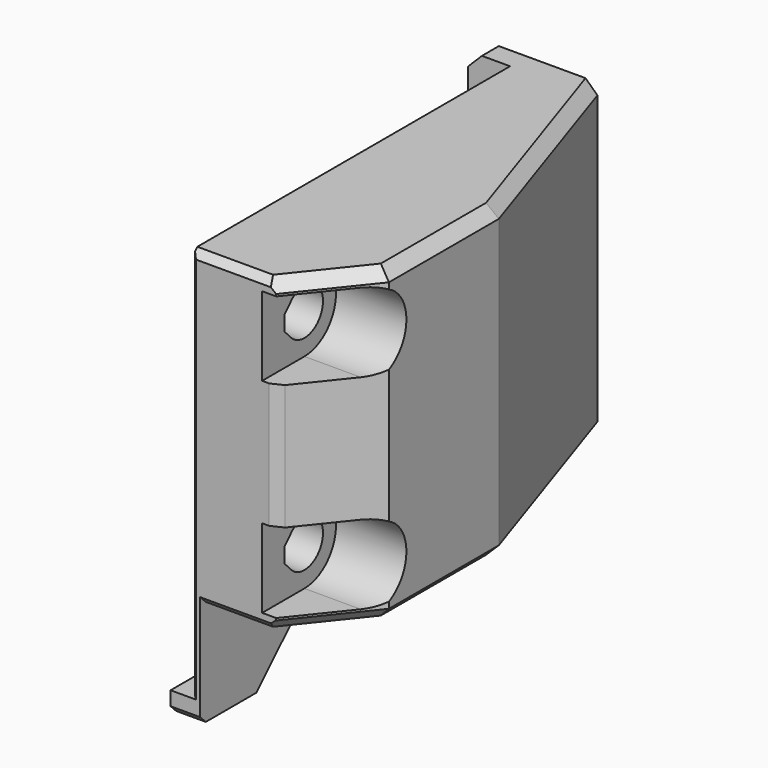
from build123d import *

# Parameters (mm, degrees)
SKETCH015_W     = 29.75
SKETCH015_H     = 22
SKETCH015_R     = 1.65
PAD005_DEPTH    = 10
SKETCH016_W     = 1.5
SKETCH016_H     = 22
PAD006_DEPTH    = 1.5
PAD007_DEPTH    = 0.6
PAD008_DEPTH    = 1.5
CHAMFER006_SIZE = 1.5
POCKET009_DEPTH = 5
POCKET010_DEPTH = 93.393175
POCKET011_DEPTH = 29.501
POCKET012_DEPTH = 29.501
CHAMFER007_SIZE = 0.5
CHAMFER008_SIZE = 0.5
CHAMFER009_SIZE = 0.8
CHAMFER010_SIZE = 0.5
CHAMFER011_SIZE = 0.3
CHAMFER012_SIZE = 0.5
SKETCH030_W     = 1.5
SKETCH030_H     = 22
PAD012_DEPTH    = 1.5
CHAMFER019_SIZE = 1


with BuildPart() as part:
    # Sketch015 (on Face1 of ShapeBinder008) → Pad005 (new body)
    with BuildSketch(Plane.YZ.offset(28.75)):
        with Locations((-35.875, 0)):
            Rectangle(SKETCH015_W, SKETCH015_H)
        with Locations((-47, 7.25)):
            Circle(SKETCH015_R, mode=Mode.SUBTRACT)
        with Locations((-47, -7.25)):
            Circle(SKETCH015_R, mode=Mode.SUBTRACT)
    extrude(amount=PAD005_DEPTH)

    # Sketch016 (on Face7 of Pad005) → Pad006 (join)
    with BuildSketch(Plane(origin=(28.75, 0, 0), x_dir=(0, -1, 0), z_dir=(-1, 0, 0))):
        with Locations((21.75, 0)):
            Rectangle(SKETCH016_W, SKETCH016_H)
    extrude(amount=PAD006_DEPTH)

    # Sketch017 (on Face2 of Pad006) → Pad007 (join)
    with BuildSketch(Plane(origin=(28.75, 0, 0), x_dir=(0, -1, 0), z_dir=(-1, 0, 0))):
        Polygon((50.75, -11), (50.75, -18.5), (45.75, -18.5), (38.25, -11), align=None)
    extrude(amount=-PAD007_DEPTH)

    # Sketch018 (on Face13 of Pad007) → Pad008 (join)
    with BuildSketch(Plane(origin=(28.75, 0, 0), x_dir=(0, -1, 0), z_dir=(-1, 0, 0))):
        Polygon((50.75, -18.5), (50.75, -17), (44.25, -17), (45.75, -18.5), align=None)
    extrude(amount=PAD008_DEPTH)

    # Chamfer006
    chamfer006_edges = [part.edges().sort_by_distance(p)[0] for p in [
        (27.25, -45, -17.75),
    ]]
    chamfer(chamfer006_edges, length=CHAMFER006_SIZE)

    # Sketch019 (on Face9 of Chamfer006) → Pocket009 (cut)
    with BuildSketch(Plane.YZ.offset(38.75)):
        with BuildLine():
            ThreePointArc((-47, -10.05), (-44.2, -7.25), (-47, -4.45))
            Line((-47, -4.45), (-50.75, -4.45))
            Line((-50.75, -4.45), (-50.75, -10.05))
            Line((-50.75, -10.05), (-47, -10.05))
        make_face()
    pocket009 = extrude(amount=-POCKET009_DEPTH, mode=Mode.SUBTRACT)

    # Mirrored002: Pocket009 across XY
    add(pocket009.mirror(Plane.XY), mode=Mode.SUBTRACT)

    # Sketch020 (on Face12 of Mirrored002) → Pocket010 (cut, through all)
    with BuildSketch(Plane.YZ.offset(33.75)):
        Polygon((-47.983298, 8.575), (-48.75, 7.808298), (-48.75, 6.691702), (-47.983298, 5.925), align=None)
    pocket010 = extrude(amount=-POCKET010_DEPTH, mode=Mode.SUBTRACT)

    # Mirrored003: Pocket010 across XY
    add(pocket010.mirror(Plane.XY), mode=Mode.SUBTRACT)

    # Sketch021 (on Face9 of Mirrored003) → Pocket011 (cut, through all)
    with BuildSketch(Plane(origin=(0, 0, 11), x_dir=(0, -1, 0), z_dir=(0, 0, 1))):
        Polygon((45.75, 38.75), (50.75, 34.75), (50.75, 38.75), align=None)
    extrude(amount=-POCKET011_DEPTH, mode=Mode.SUBTRACT)

    # Sketch022 (on Face9 of Pocket011) → Pocket012 (cut, through all)
    with BuildSketch(Plane(origin=(0, 0, 11), x_dir=(0, -1, 0), z_dir=(0, 0, 1))):
        Polygon((21, 33.75), (36, 38.75), (21, 38.75), align=None)
    extrude(amount=-POCKET012_DEPTH, mode=Mode.SUBTRACT)

    # Chamfer007
    chamfer007_edges = [part.edges().sort_by_distance(p)[0] for p in [
        (31.75, -50.75, 11),
    ]]
    chamfer(chamfer007_edges, length=CHAMFER007_SIZE)

    # Chamfer008
    chamfer008_edges = [part.edges().sort_by_distance(p)[0] for p in [
        (32.05, -50.75, -11),
    ]]
    chamfer(chamfer008_edges, length=CHAMFER008_SIZE)

    # Chamfer009
    chamfer009_edges = [part.edges().sort_by_distance(p)[0] for p in [
        (36.95, -48, -11),
        (38.75, -40.875, -11),
        (36.25, -28.5, -11),
        (36.25, -28.5, 11),
        (38.75, -40.875, 11),
        (36.95, -48, 11),
    ]]
    chamfer(chamfer009_edges, length=CHAMFER009_SIZE)

    # Chamfer010
    chamfer010_edges = [part.edges().sort_by_distance(p)[0] for p in [
        (34.75, -50.75, 0),
    ]]
    chamfer(chamfer010_edges, length=CHAMFER010_SIZE)

    # Chamfer011
    chamfer011_edges = [part.edges().sort_by_distance(p)[0] for p in [
        (28.75, -50.75, -3.25),
    ]]
    chamfer(chamfer011_edges, length=CHAMFER011_SIZE)

    # Chamfer012
    chamfer012_edges = [part.edges().sort_by_distance(p)[0] for p in [
        (28.3, -50.75, -18.5),
    ]]
    chamfer(chamfer012_edges, length=CHAMFER012_SIZE)

    # Sketch030 (on Face43 of Chamfer012) → Pad012 (join)
    with BuildSketch(Plane(origin=(27.25, 0, 0), x_dir=(0, -1, 0), z_dir=(-1, 0, 0))):
        with Locations((21.75, 0)):
            Rectangle(SKETCH030_W, SKETCH030_H)
    extrude(amount=PAD012_DEPTH)

    # Chamfer019
    chamfer019_edges = [part.edges().sort_by_distance(p)[0] for p in [
        (25.75, -21.75, -11),
        (25.75, -21.75, 11),
    ]]
    chamfer(chamfer019_edges, length=CHAMFER019_SIZE)


solid = part.part
